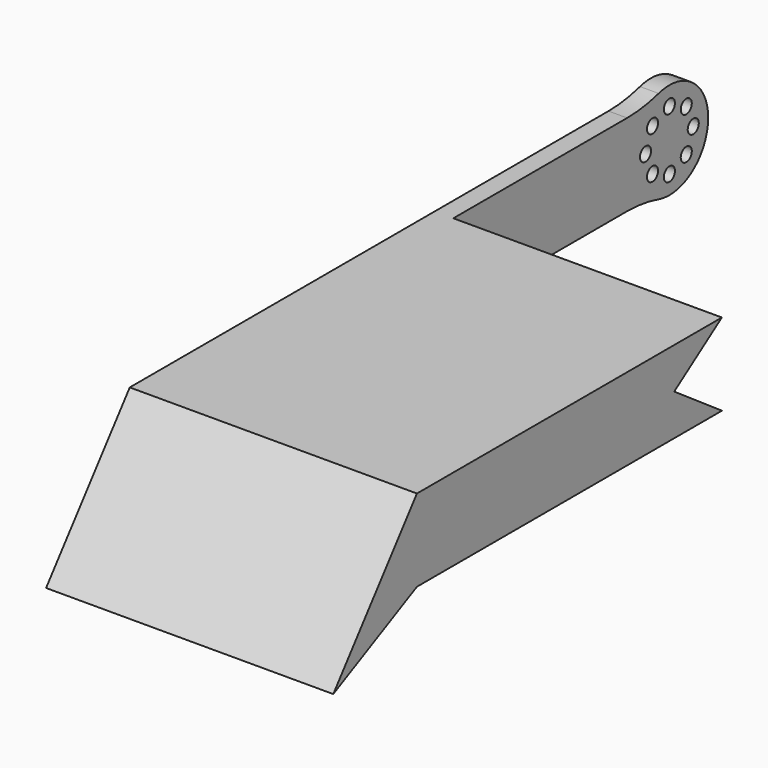
from build123d import *

# Parameters (mm, degrees)
F2_DEPTH = 76.999998
F1_R     = 1.8542
F1_R_2   = 1.849996
F3_DEPTH = 4.99999
F4_R     = 38.1
F5_R     = 38.1


with BuildPart() as f2:
    # F0 (on Right) → F2 (new body)
    with BuildSketch(Plane.YZ):
        Polygon((60.006157, 31.522735), (-42.191276, 31.522735), (-70.230425, -4.425786), (-42.191276, 9.513999), (60.018324, 9.513999), (44.03463, 20.518491), align=None)
    extrude(amount=F2_DEPTH)

    # F1 (on Right) → F3 (join)
    with BuildSketch(Plane.YZ):
        with BuildLine():
            ThreePointArc((145.413895, 20.522193), (138.69693, 31.902865), (125.487357, 31.522735))
            ThreePointArc((125.487357, 31.522735), (119.414457, 20.515007), (125.499524, 9.513999))
            ThreePointArc((125.499524, 9.513999), (138.703221, 9.144996), (145.413895, 20.522193))
        make_face()
        with Locations((132.414175, 12.526273)):
            Circle(F1_R, mode=Mode.SUBTRACT)
        with Locations((126.760205, 14.868224)):
            Circle(F1_R, mode=Mode.SUBTRACT)
        with Locations((138.068144, 14.868224)):
            Circle(F1_R, mode=Mode.SUBTRACT)
        with Locations((124.418255, 20.522193)):
            Circle(F1_R, mode=Mode.SUBTRACT)
        with Locations((140.410095, 20.522193)):
            Circle(F1_R, mode=Mode.SUBTRACT)
        with Locations((126.760205, 26.176162)):
            Circle(F1_R, mode=Mode.SUBTRACT)
        with Locations((138.070829, 26.178848)):
            Circle(F1_R_2, mode=Mode.SUBTRACT)
        with Locations((132.414175, 28.518113)):
            Circle(F1_R, mode=Mode.SUBTRACT)
        with BuildLine():
            Line((125.487357, 31.522735), (60.006157, 31.522735))
            Line((60.006157, 31.522735), (44.03463, 20.518491))
            Line((44.03463, 20.518491), (60.018324, 9.513999))
            Line((60.018324, 9.513999), (125.499524, 9.513999))
            ThreePointArc((125.499524, 9.513999), (119.414457, 20.515007), (125.487357, 31.522735))
        make_face()
    extrude(amount=F3_DEPTH)

    # F4
    f4_edges = [f2.edges().sort_by_distance(p)[0] for p in [
        (2.499995, 125.487357, 31.522735),
    ]]
    fillet(f4_edges, radius=F4_R)

    # F5
    f5_edges = [f2.edges().sort_by_distance(p)[0] for p in [
        (2.499995, 125.499524, 9.513999),
    ]]
    fillet(f5_edges, radius=F5_R)


solid = f2.part
